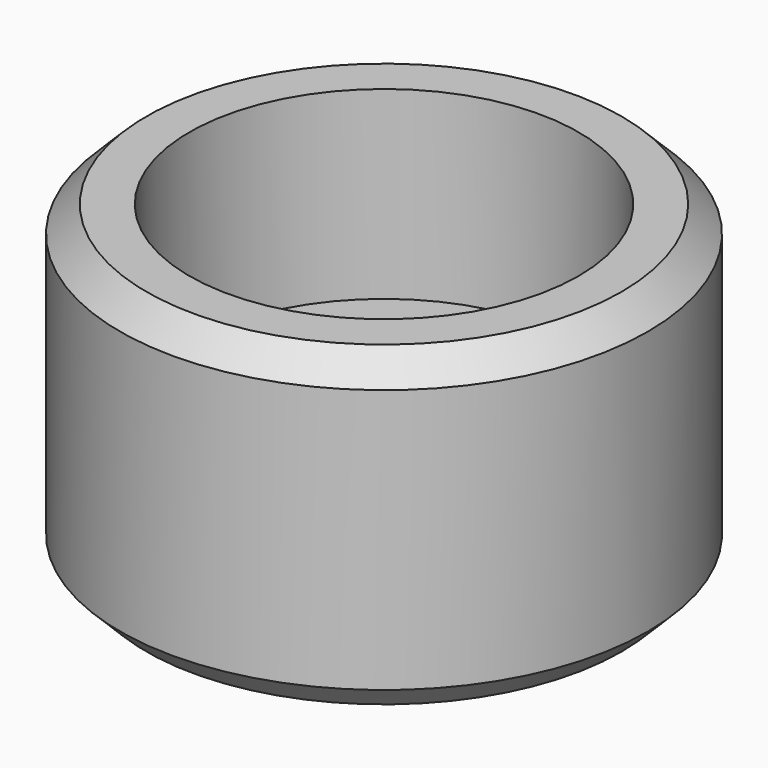
from build123d import *

# Parameters (mm, degrees)
SKETCH001_R     = 10
PAD_DEPTH       = 6
SKETCH_W        = 5.5
SKETCH_H        = 3.5
POCKET_DEPTH    = 12.001
SKETCH002_R     = 7.375
POCKET001_DEPTH = 7
CHAMFER_SIZE    = 1


with BuildPart() as part:
    # Sketch001 → Pad (new body, symmetric)
    with BuildSketch(Plane.XY):
        Circle(SKETCH001_R)
    extrude(amount=PAD_DEPTH, both=True)

    # Sketch → Pocket (cut, through all)
    with BuildSketch(Plane(origin=(0, 0, -6), x_dir=(1, 0, 0), z_dir=(0, 0, -1))):
        Rectangle(SKETCH_W, SKETCH_H)
    extrude(amount=-POCKET_DEPTH, mode=Mode.SUBTRACT)

    # Sketch002 → Pocket001 (cut)
    with BuildSketch(Plane.XY.offset(6)):
        Circle(SKETCH002_R)
    extrude(amount=-POCKET001_DEPTH, mode=Mode.SUBTRACT)

    # Chamfer
    chamfer_edges = [part.edges().sort_by_distance(p)[0] for p in [
        (-10, 0, 6),
        (-10, 0, -6),
    ]]
    chamfer(chamfer_edges, length=CHAMFER_SIZE)


solid = part.part
